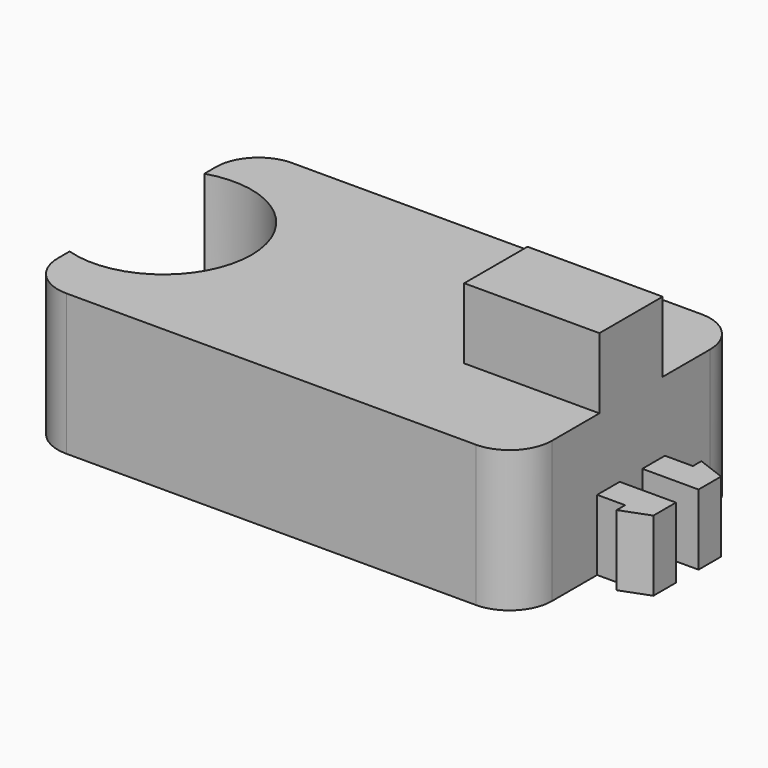
from build123d import *

# Parameters (mm, degrees)
F1_DEPTH = 10
F2_DEPTH = 15
F3_R     = 3
F0_W     = 2
F0_H     = 2
F4_DEPTH = 5


with BuildPart() as f1:
    # F0 (on Top) → F1 (new body)
    with BuildSketch(Plane.XY):
        with BuildLine():
            Line((43.3439803123, -2.1253142133), (8.3439803123, -2.1253142133))
            Line((8.3439803123, -2.1253142133), (8.3439803123, -6.1607846163))
            ThreePointArc((8.3439803123, -6.1607846163), (13.9120945643, -7.088784926), (16.4613010362, -12.1253142133))
            ThreePointArc((16.4613010362, -12.1253142133), (13.9120945643, -17.1618435006), (8.3439803123, -18.0898438104))
            Line((8.3439803123, -18.0898438104), (8.3439803123, -22.1253142133))
            Line((8.3439803123, -22.1253142133), (43.3439803123, -22.1253142133))
            Line((43.3439803123, -22.1253142133), (43.3439803123, -15.1270665228))
            Line((43.3439803123, -15.1270665228), (43.3439803123, -14.9253142133))
            Line((43.3439803123, -14.9253142133), (33.7679572403, -14.9253142133))
            Line((33.7679572403, -14.9253142133), (33.7679572403, -9.3253142133))
            Line((33.7679572403, -9.3253142133), (43.3439803123, -9.3253142133))
            Line((43.3439803123, -9.3253142133), (43.3439803123, -9.1270665228))
            Line((43.3439803123, -9.1270665228), (43.3439803123, -2.1253142133))
        make_face()
        Polygon((43.3439803123, -11.1270665228), (43.3439803123, -9.3253142133), (33.7679572403, -9.3253142133), (33.7679572403, -14.9253142133), (43.3439803123, -14.9253142133), (43.3439803123, -13.1270665228), align=None)
    extrude(amount=F1_DEPTH)

    # F0 (on Top) → F2 (join)
    with BuildSketch(Plane.XY):
        Polygon((43.3439803123, -11.1270665228), (43.3439803123, -9.3253142133), (33.7679572403, -9.3253142133), (33.7679572403, -14.9253142133), (43.3439803123, -14.9253142133), (43.3439803123, -13.1270665228), align=None)
    extrude(amount=F2_DEPTH)

    # F3
    f3_edges = [f1.edges().sort_by_distance(p)[0] for p in [
        (8.34398, -22.125314, 5),
        (43.34398, -22.125314, 5),
        (43.34398, -2.125314, 5),
        (8.34398, -2.125314, 5),
    ]]
    fillet(f3_edges, radius=F3_R)

    # F0 (on Top) → F4 (join)
    with BuildSketch(Plane.XY):
        Polygon((45.3259829879, -9.1270665228), (43.3439803123, -9.1270665228), (43.3439803123, -9.3253142133), (43.3439803123, -11.1270665228), (44.0259829879, -11.1270665228), (45.3259829879, -11.1270665228), align=None)
        with Locations((46.3259829879, -10.1270665228)):
            Rectangle(F0_W, F0_H)
        Polygon((45.3259829879, -8.3770665228), (45.3259829879, -9.1270665228), (47.3259829879, -9.1270665228), align=None)
        with Locations((46.3259829879, -14.1270665228)):
            Rectangle(F0_W, F0_H)
        Polygon((47.3259829879, -15.1270665228), (45.3259829879, -15.1270665228), (45.3259829879, -15.8770665228), align=None)
        Polygon((44.0259829879, -13.1270665228), (43.3439803123, -13.1270665228), (43.3439803123, -14.9253142133), (43.3439803123, -15.1270665228), (45.3259829879, -15.1270665228), (45.3259829879, -13.1270665228), align=None)
    extrude(amount=F4_DEPTH)


solid = f1.part
